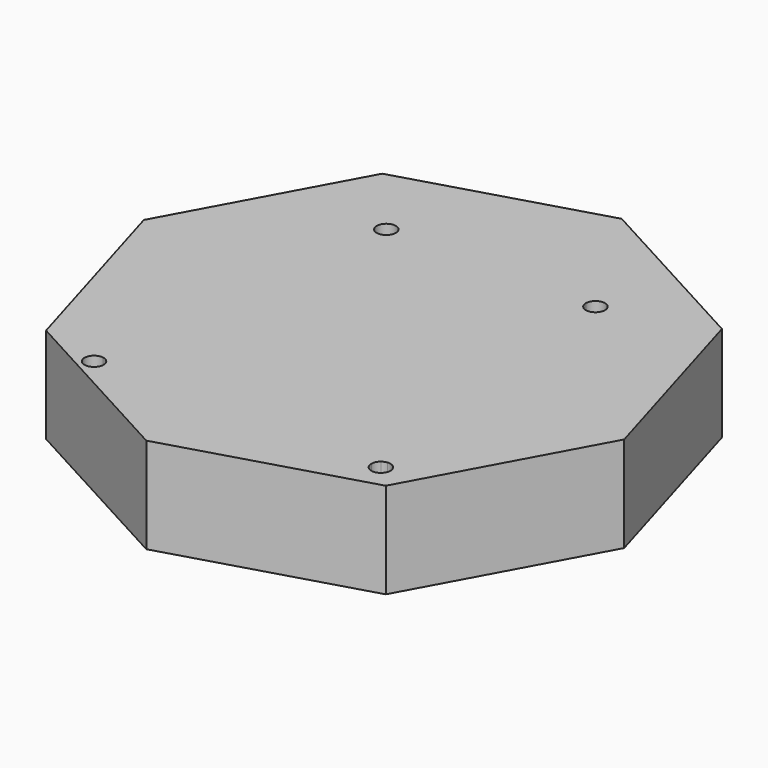
from build123d import *

# Parameters (mm, degrees)
F1_DEPTH = 80


with BuildPart() as f1:
    # F0 (on Top) → F1 (new body)
    with BuildSketch(Plane.XY):
        Polygon((-138.8081118726, 243.2102153142), (-219.5454731322, 94.7753002802), (-171.6760737886, -67.273970347), (-23.2411587546, -148.0113316066), (138.8081118726, -100.141932263), (219.5454731322, 48.292982771), (171.6760737886, 210.3422533982), (23.2411587546, 291.0796146578), align=None)
        with BuildLine():
            Line((-79.5, 183.2811294774), (0, 183.2811294774))
            Line((0, 183.2811294774), (79.5, 183.2811294774))
            ThreePointArc((79.5, 183.2811294774), (87.5, 191.2811294774), (95.5, 183.2811294774))
            ThreePointArc((95.5, 183.2811294774), (93.4912722212, 177.9797469057), (88.473835707, 175.3406229435))
            Line((88.473835707, 175.3406229435), (119.026164293, -73.7783639886))
            ThreePointArc((119.026164293, -73.7783639886), (125.3013825717, -75.7275983014), (128, -81.7188705226))
            ThreePointArc((128, -81.7188705226), (120, -89.7188705226), (112, -81.7188705226))
            Line((112, -81.7188705226), (0, -81.7188705226))
            Line((0, -81.7188705226), (-112, -81.7188705226))
            ThreePointArc((-112, -81.7188705226), (-125.9912722212, -87.0202530943), (-119.026164293, -73.7783639886))
            Line((-119.026164293, -73.7783639886), (-88.473835707, 175.3406229435))
            ThreePointArc((-88.473835707, 175.3406229435), (-92.8013825717, 189.2724016986), (-79.5, 183.2811294774))
        make_face(mode=Mode.SUBTRACT)
        with BuildLine():
            Line((82.567931818, 176.9823436064), (0, 71.5341415256))
            Line((0, 71.5341415256), (115.067931818, -75.4200846516))
            ThreePointArc((115.067931818, -75.4200846516), (116.9350796307, -74.3292654499), (119.026164293, -73.7783639886))
            Line((119.026164293, -73.7783639886), (88.473835707, 175.3406229435))
            ThreePointArc((88.473835707, 175.3406229435), (85.3574051327, 175.5733874452), (82.567931818, 176.9823436064))
        make_face()
        with BuildLine():
            Line((115.067931818, -75.4200846516), (0, 71.5341415256))
            Line((0, 71.5341415256), (0, -81.7188705226))
            Line((0, -81.7188705226), (112, -81.7188705226))
            ThreePointArc((112, -81.7188705226), (112.8077630234, -78.2157680017), (115.067931818, -75.4200846516))
        make_face()
        with BuildLine():
            Line((0, -81.7188705226), (0, 71.5341415256))
            Line((0, 71.5341415256), (-115.067931818, -75.4200846516))
            ThreePointArc((-115.067931818, -75.4200846516), (-112.8077630234, -78.2157680017), (-112, -81.7188705226))
            Line((-112, -81.7188705226), (0, -81.7188705226))
        make_face()
        with BuildLine():
            Line((-115.067931818, -75.4200846516), (0, 71.5341415256))
            Line((0, 71.5341415256), (-82.567931818, 176.9823436064))
            ThreePointArc((-82.567931818, 176.9823436064), (-85.3574051327, 175.5733874452), (-88.473835707, 175.3406229435))
            Line((-88.473835707, 175.3406229435), (-119.026164293, -73.7783639886))
            ThreePointArc((-119.026164293, -73.7783639886), (-116.9350796307, -74.3292654499), (-115.067931818, -75.4200846516))
        make_face()
        with BuildLine():
            Line((79.5, 183.2811294774), (0, 183.2811294774))
            Line((0, 183.2811294774), (0, 71.5341415256))
            Line((0, 71.5341415256), (82.567931818, 176.9823436064))
            ThreePointArc((82.567931818, 176.9823436064), (80.3077630234, 179.7780269565), (79.5, 183.2811294774))
        make_face()
        with BuildLine():
            Line((0, 71.5341415256), (0, 183.2811294774))
            Line((0, 183.2811294774), (-79.5, 183.2811294774))
            ThreePointArc((-79.5, 183.2811294774), (-80.3077630234, 179.7780269565), (-82.567931818, 176.9823436064))
            Line((-82.567931818, 176.9823436064), (0, 71.5341415256))
        make_face()
    extrude(amount=F1_DEPTH)


solid = f1.part
